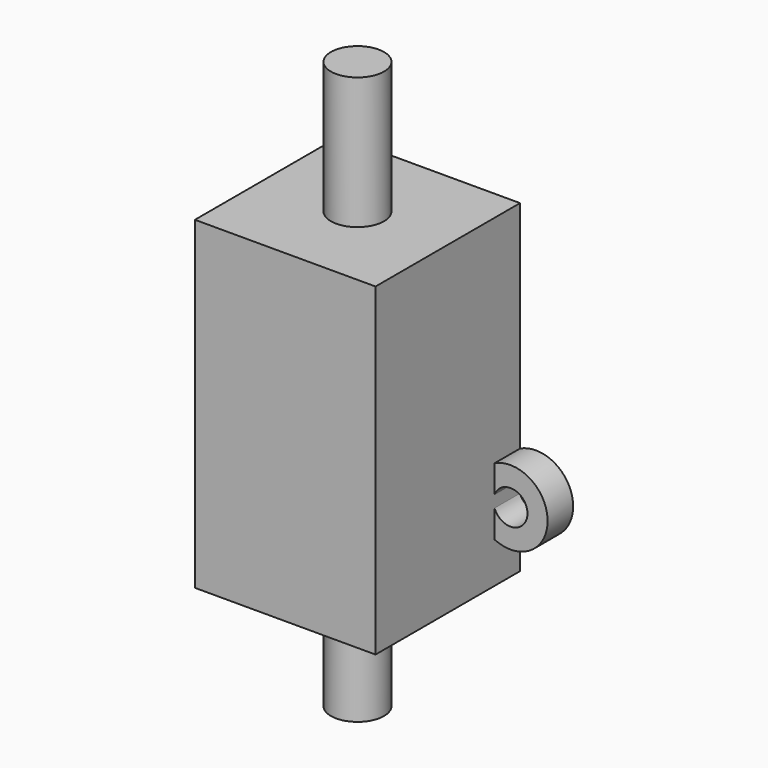
from build123d import *

# Parameters (mm, degrees)
F1_DEPTH = 17
F2_DEPTH = 3
F3_R     = 2.5
F4_DEPTH = 12.4
F5_DEPTH = 41


with BuildPart() as f1:
    # F0 (on Front) → F1 (new body)
    with BuildSketch(Plane.XZ):
        Polygon((8.5, 15.25), (-8.5, 15.25), (-8.5, 10.912278), (-8.5, 8.306776), (-8.5, 7.193224), (-8.5, 4.587722), (-8.5, -15.25), (8.5, -15.25), (8.5, -11.412278), (8.5, -8.806776), (8.5, -7.693224), (8.5, -5.087722), align=None)
    extrude(amount=F1_DEPTH)

    # F0 (on Front) → F2 (join)
    with BuildSketch(Plane.XZ):
        with BuildLine():
            Line((-8.5, 8.306776), (-8.5, 10.912278))
            ThreePointArc((-8.5, 10.912278), (-13.5, 7.75), (-8.5, 4.587722))
            Line((-8.5, 4.587722), (-8.5, 7.193224))
            ThreePointArc((-8.5, 7.193224), (-11.6, 7.75), (-8.5, 8.306776))
        make_face()
        with BuildLine():
            ThreePointArc((8.5, -11.412278), (13.5, -8.25), (8.5, -5.087722))
            Line((8.5, -5.087722), (8.5, -7.693224))
            ThreePointArc((8.5, -7.693224), (11.6, -8.25), (8.5, -8.806776))
            Line((8.5, -8.806776), (8.5, -11.412278))
        make_face()
    extrude(amount=F2_DEPTH)

    # F3 (on face) → F4 (join)
    with BuildSketch(Plane.XY.offset(15.25)):
        with Locations((0, -8.5)):
            Circle(F3_R)
    extrude(amount=F4_DEPTH)

    # F3 (on face) → F5 (join)
    with BuildSketch(Plane.XY.offset(15.25)):
        with Locations((0, -8.5)):
            Circle(F3_R)
    extrude(amount=-F5_DEPTH)


solid = f1.part
